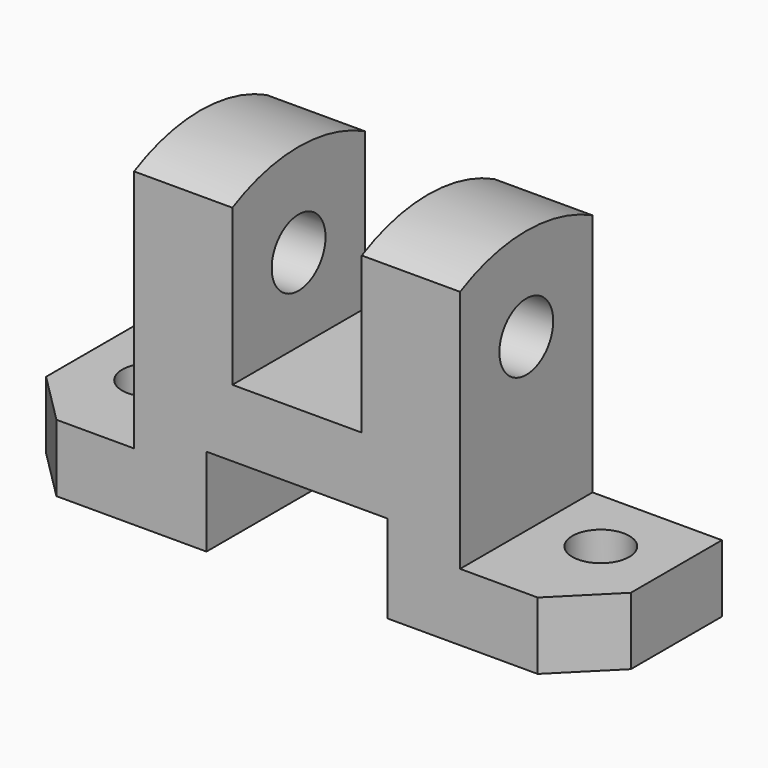
from build123d import *

# Parameters (mm, degrees)
F1_DEPTH = 56.5
F2_W     = 25
F2_H     = 47.1287648325
F2_H_2   = 3.8712351675
F2_W_2   = 35
F2_H_3   = 17
F3_DEPTH = 50
F4_R     = 6.5
F5_DEPTH = 113
F6_R     = 5.5
F7_DEPTH = 25
F8_SIZE2 = 10
F8_SIZE  = 10


with BuildPart() as f1:
    # F0 (on Right) → F1 (new body, symmetric)
    with BuildSketch(Plane.YZ):
        with BuildLine():
            Line((-16, 0), (0, 0))
            Line((0, 0), (16, 0))
            Line((16, 0), (16, 60.1287648325))
            ThreePointArc((16, 60.1287648325), (0, 64), (-16, 60.1287648325))
            Line((-16, 60.1287648325), (-16, 0))
        make_face()
    extrude(amount=F1_DEPTH, both=True)

    # F2 (on face) → F3 (cut)
    with BuildSketch(Plane.XZ.offset(16)):
        with Locations((-44, 36.5643824163)):
            Rectangle(F2_W, F2_H)
        with Locations((-44, 62.0643824163)):
            Rectangle(F2_W, F2_H_2)
        Polygon((12.5, 60.1287648325), (-12.5, 60.1287648325), (-12.5, 30), (0, 30), (12.5, 30), align=None)
        with Locations((0, 62.0643824163)):
            Rectangle(F2_W, F2_H_2)
        with Locations((44, 36.5643824163)):
            Rectangle(F2_W, F2_H)
        with Locations((44, 62.0643824163)):
            Rectangle(F2_W, F2_H_2)
        with Locations((0, 8.5)):
            Rectangle(F2_W_2, F2_H_3)
    extrude(amount=-F3_DEPTH, mode=Mode.SUBTRACT)

    # F4 (on face) → F5 (cut)
    with BuildSketch(Plane.YZ.offset(31.5)):
        with Locations((0, 46)):
            Circle(F4_R)
    extrude(amount=-F5_DEPTH, mode=Mode.SUBTRACT)

    # F6 (on face) → F7 (cut)
    with BuildSketch(Plane.XY.offset(13)):
        with Locations((-43.5, 3)):
            Circle(F6_R)
        with Locations((43.5, 3)):
            Circle(F6_R)
    extrude(amount=-F7_DEPTH, mode=Mode.SUBTRACT)

    # F8
    f8_edges = [f1.edges().sort_by_distance(p)[0] for p in [
        (-56.5, -16, 6.5),
        (56.5, -16, 6.5),
    ]]
    chamfer(f8_edges, length=F8_SIZE, length2=F8_SIZE2)


solid = f1.part
